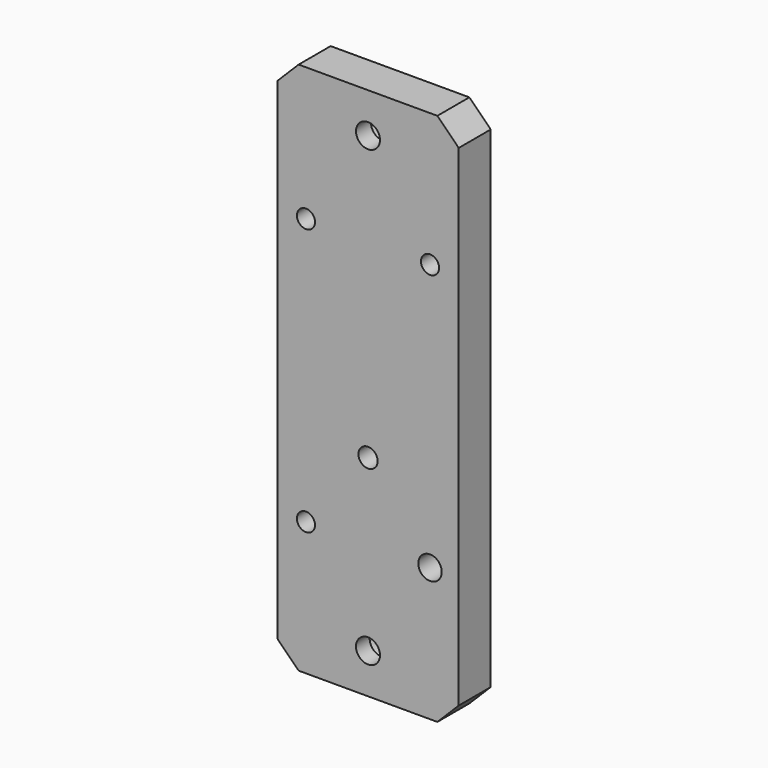
from build123d import *

# Parameters (mm, degrees)
F0_R           = 3.3999999346
F0_R_2         = 4.4999999135
F1_DEPTH       = 15
F2_D           = 8.8
F2_CBORE_D     = 15
F2_CBORE_DEPTH = 8
F3_D           = 8.8
F3_CBORE_D     = 15
F3_CBORE_DEPTH = 8.6
F4_D           = 8.8
F5_D           = 7.2


with BuildPart() as f1:
    # F0 (on Front) → F1 (new body)
    with BuildSketch(Plane.XZ):
        Polygon((25.9961503957, 121.2465122815), (-26.0038496043, 121.2465122815), (-34.0038514504, 113.2465114353), (-34.0038514504, -70.7534860262), (-26.0038496043, -78.7534868724), (25.9961503957, -78.7534868724), (33.9961512419, -70.7534860262), (33.9961512419, 113.2465114353), align=None)
        with Locations((-23.2538496572, -28.7534868339)):
            Circle(F0_R, mode=Mode.SUBTRACT)
        with Locations((-0.0038501043, -63.7534861608)):
            Circle(F0_R_2, mode=Mode.SUBTRACT)
        with Locations((23.2461494486, -28.7534868339)):
            Circle(F0_R, mode=Mode.SUBTRACT)
        with Locations((-23.2538496572, 71.246511243)):
            Circle(F0_R, mode=Mode.SUBTRACT)
        with Locations((23.2461494486, 71.246511243)):
            Circle(F0_R, mode=Mode.SUBTRACT)
        with Locations((-0.0038501043, 106.2465105699)):
            Circle(F0_R_2, mode=Mode.SUBTRACT)
    extrude(amount=F1_DEPTH)

    # F2 (through all)
    with Locations(Plane(origin=(0, 0, 0), x_dir=(1, 0, 0), z_dir=(0, 1, 0))):
        with Locations((-0.0038501043, -106.2465105699)):
            CounterBoreHole(F2_D / 2, F2_CBORE_D / 2, F2_CBORE_DEPTH)

    # F3 (through all)
    with Locations(Plane(origin=(0, 0, 0), x_dir=(1, 0, 0), z_dir=(0, 1, 0))):
        with Locations((-0.0038501043, 63.7534861608)):
            CounterBoreHole(F3_D / 2, F3_CBORE_D / 2, F3_CBORE_DEPTH)

    # F4 (through all)
    with Locations(Plane(origin=(0, 0, 0), x_dir=(1, 0, 0), z_dir=(0, 1, 0))):
        with Locations((23.2461494486, 28.7534868339)):
            Hole(F4_D / 2)

    # F5 (through all)
    with Locations(Plane(origin=(0, 0, 0), x_dir=(1, 0, 0), z_dir=(0, 1, 0))):
        with Locations((0, 0)):
            Hole(F5_D / 2)


solid = f1.part
